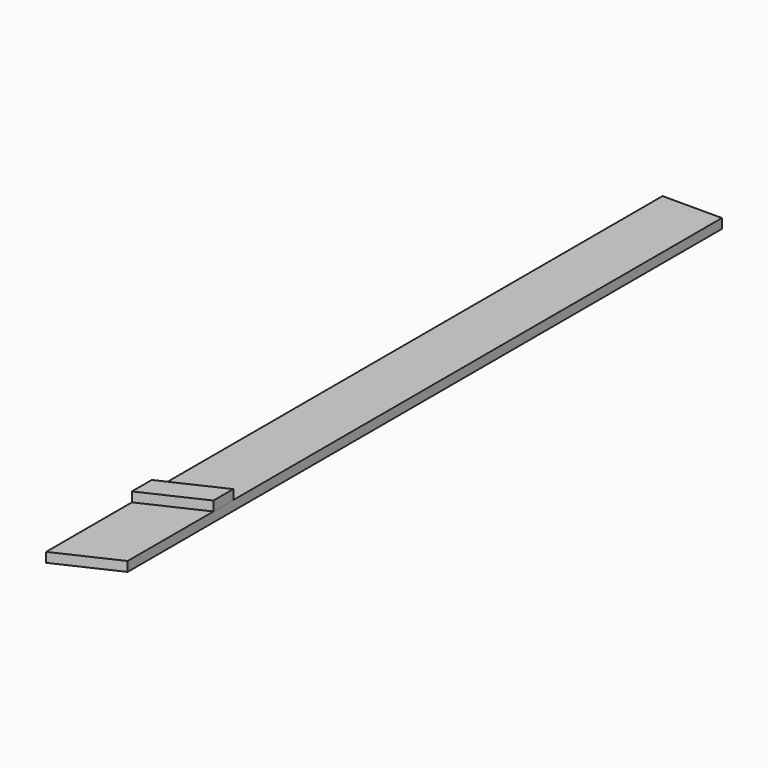
from build123d import *

# Parameters (mm, degrees)
F1_W     = 234.95
F1_H     = 3048
F2_DEPTH = 38.1
F4_DEPTH = 38.1
F6_DEPTH = 38.1


with BuildPart() as f2:
    # F1 (on Top) → F2 (new body)
    with BuildSketch(Plane.XY):
        Rectangle(F1_W, F1_H)
    extrude(amount=F2_DEPTH)

    # F3 (on face) → F4 (cut, through all)
    with BuildSketch(Plane.XY.offset(38.1)):
        Polygon((117.475, -1414.4410157165), (-117.475, -1524), (117.475, -1524), align=None)
    extrude(amount=-F4_DEPTH, mode=Mode.SUBTRACT)


with BuildPart() as f6:
    # F5 (on face) → F6 (new body)
    with BuildSketch(Plane.XY.offset(38.1)):
        Polygon((-117.475, -1001.7037331937), (-117.475, -1099.7940301895), (28.3354210442, -1031.8015142178), (-9.2353424246, -951.2307519503), align=None)
        Polygon((-9.2353424246, -951.2307519503), (28.3354210442, -1031.8015142178), (117.475, -990.235045906), (117.475, -892.1447489102), align=None)
    extrude(amount=F6_DEPTH)


solid = Compound([f2.part, f6.part])
